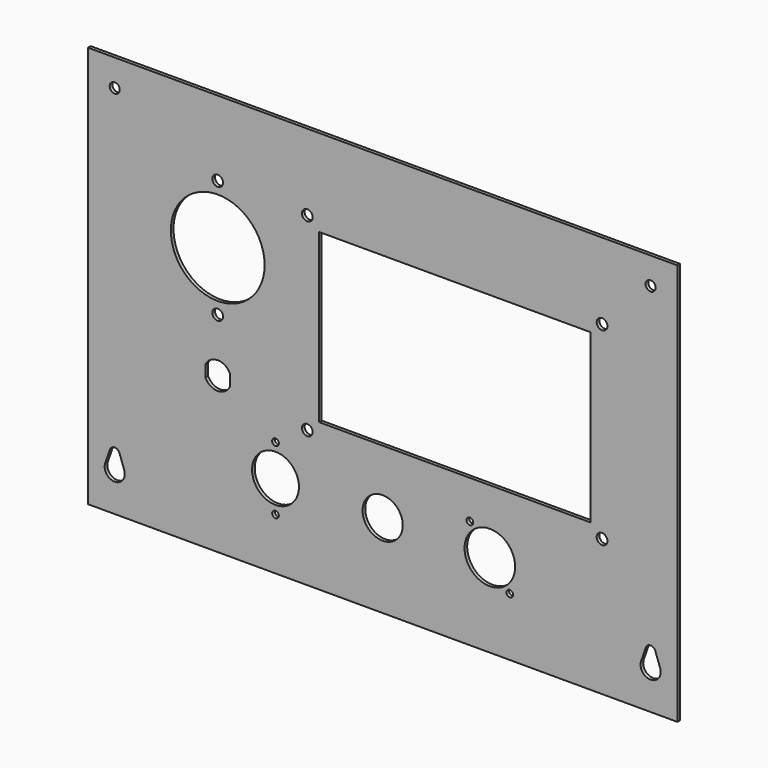
from build123d import *

# Parameters (mm, degrees)
F0_W     = 279.4
F0_H     = 190.5
F1_DEPTH = 1.5875
F2_W     = 128.5875
F2_H     = 79.375
F2_R     = 2.54
F3_DEPTH = 25.4
F4_R     = 22.225
F4_R_2   = 2.54
F5_DEPTH = 25.4
F6_R     = 12.0015
F6_R_2   = 1.5875
F6_R_3   = 9.525
F6_R_4   = 11.1125
F7_DEPTH = 25.4
F8_R     = 2.38125
F9_DEPTH = 25.4


with BuildPart() as f1:
    # F0 (on Front) → F1 (new body)
    with BuildSketch(Plane.XZ):
        Rectangle(F0_W, F0_H)
    extrude(amount=F1_DEPTH)

    # F2 (on face) → F3 (cut)
    with BuildSketch(Plane.XZ.offset(1.5875)):
        with Locations((34.13125, 14.2875)):
            Rectangle(F2_W, F2_H)
        with Locations((-35.71875, 59.09945)):
            Circle(F2_R)
        with Locations((103.98125, 59.09945)):
            Circle(F2_R)
        with Locations((103.98125, -30.52445)):
            Circle(F2_R)
        with Locations((-35.71875, -30.52445)):
            Circle(F2_R)
    extrude(amount=-F3_DEPTH, mode=Mode.SUBTRACT)

    # F4 (on face) → F5 (cut)
    with BuildSketch(Plane.XZ.offset(1.5875)):
        with Locations((-78.184375, 31.75)):
            Circle(F4_R)
        with Locations((-78.184375, 59.69)):
            Circle(F4_R_2)
        with Locations((-78.184375, 3.81)):
            Circle(F4_R_2)
    extrude(amount=-F5_DEPTH, mode=Mode.SUBTRACT)

    # F6 (on face) → F7 (cut)
    with BuildSketch(Plane.XZ.offset(1.5875)):
        with Locations((50.8, -55.5625)):
            Circle(F6_R)
        with Locations((41.3385, -43.561)):
            Circle(F6_R_2)
        with Locations((60.2615, -67.564)):
            Circle(F6_R_2)
        with Locations((0, -55.5625)):
            Circle(F6_R_3)
        with BuildLine():
            Line((-84.039075, -18.940748), (-84.039075, -24.239252))
            ThreePointArc((-84.039075, -24.239252), (-78.184375, -28.0162), (-72.329675, -24.239252))
            Line((-72.329675, -24.239252), (-72.329675, -18.940748))
            ThreePointArc((-72.329675, -18.940748), (-78.184375, -15.1638), (-84.039075, -18.940748))
        make_face()
        with Locations((-50.8, -55.5625)):
            Circle(F6_R_4)
        with Locations((-50.8, -40.48125)):
            Circle(F6_R_2)
        with Locations((-50.8, -70.64375)):
            Circle(F6_R_2)
    extrude(amount=-F7_DEPTH, mode=Mode.SUBTRACT)

    # F8 (on face) → F9 (cut)
    with BuildSketch(Plane.XZ.offset(1.5875)):
        with Locations((-127, 82.55)):
            Circle(F8_R)
        with Locations((127, 82.55)):
            Circle(F8_R)
        with BuildLine():
            Line((-122.509872, -75.40625), (-124.754936, -69.05625))
            ThreePointArc((-124.754936, -69.05625), (-127, -67.46875), (-129.245064, -69.05625))
            Line((-129.245064, -69.05625), (-131.490128, -75.40625))
            ThreePointArc((-131.490128, -75.40625), (-127, -81.75625), (-122.509872, -75.40625))
        make_face()
        with BuildLine():
            Line((131.490128, -75.40625), (129.245064, -69.05625))
            ThreePointArc((129.245064, -69.05625), (127, -67.46875), (124.754936, -69.05625))
            Line((124.754936, -69.05625), (122.509872, -75.40625))
            ThreePointArc((122.509872, -75.40625), (127, -81.75625), (131.490128, -75.40625))
        make_face()
    extrude(amount=-F9_DEPTH, mode=Mode.SUBTRACT)


solid = f1.part
